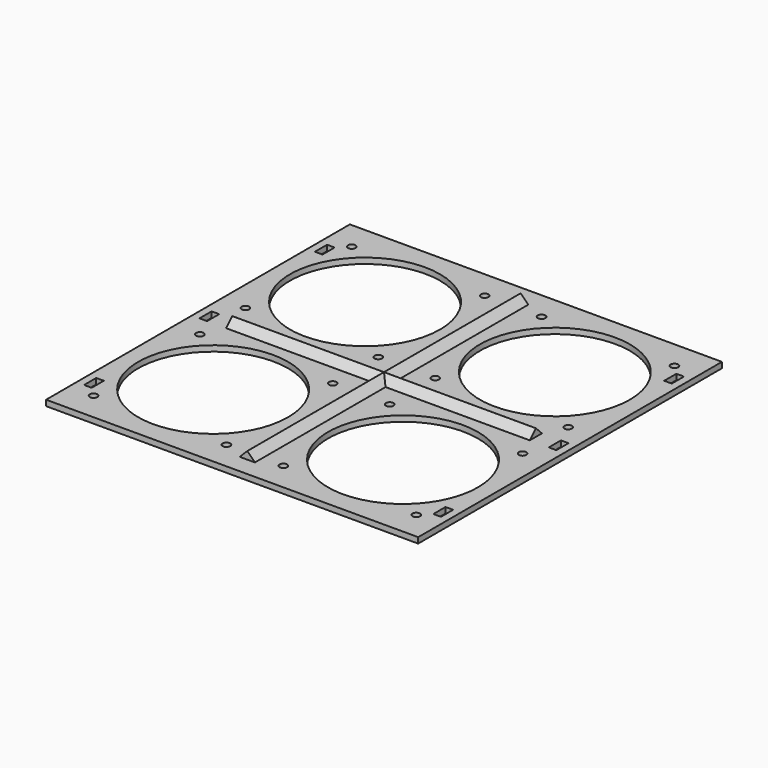
from build123d import *

# Parameters (mm, degrees)
SKETCH_W        = 196
SKETCH_H        = 200
PAD_DEPTH       = 3
SKETCH001_R     = 39.5
SKETCH001_R_2   = 2
POCKET_DEPTH    = 5
SKETCH002_W     = 4
SKETCH002_H     = 8
POCKET001_DEPTH = 5
SKETCH003_W     = 8
SKETCH003_H     = 180
PAD001_DEPTH    = 4
SKETCH004_W     = 160
SKETCH004_H     = 8
PAD002_DEPTH    = 4
CHAMFER_SIZE    = 3.99
CHAMFER001_SIZE = 3.99


with BuildPart() as part:
    # Sketch → Pad (new body)
    with BuildSketch(Plane.XY):
        Rectangle(SKETCH_W, SKETCH_H)
    extrude(amount=PAD_DEPTH)

    # Sketch001 (on Face6 of Pad) → Pocket (cut)
    with BuildSketch(Plane.XY.offset(3)):
        with Locations((-50, 50)):
            Circle(SKETCH001_R)
        with Locations((50, 50)):
            Circle(SKETCH001_R)
        with Locations((50, -50)):
            Circle(SKETCH001_R)
        with Locations((-50, -50)):
            Circle(SKETCH001_R)
        with Locations((-85, 85)):
            Circle(SKETCH001_R_2)
        with Locations((-15, 85)):
            Circle(SKETCH001_R_2)
        with Locations((-85, 15)):
            Circle(SKETCH001_R_2)
        with Locations((-15, 15)):
            Circle(SKETCH001_R_2)
        with Locations((15, 15)):
            Circle(SKETCH001_R_2)
        with Locations((15, 85)):
            Circle(SKETCH001_R_2)
        with Locations((85, 85)):
            Circle(SKETCH001_R_2)
        with Locations((85, 15)):
            Circle(SKETCH001_R_2)
        with Locations((85, -15)):
            Circle(SKETCH001_R_2)
        with Locations((15, -15)):
            Circle(SKETCH001_R_2)
        with Locations((15, -85)):
            Circle(SKETCH001_R_2)
        with Locations((85, -85)):
            Circle(SKETCH001_R_2)
        with Locations((-15, -85)):
            Circle(SKETCH001_R_2)
        with Locations((-85, -15)):
            Circle(SKETCH001_R_2)
        with Locations((-15, -15)):
            Circle(SKETCH001_R_2)
        with Locations((-85, -85)):
            Circle(SKETCH001_R_2)
    extrude(amount=-POCKET_DEPTH, mode=Mode.SUBTRACT)

    # Sketch002 (on Face5 of Pocket) → Pocket001 (cut)
    with BuildSketch(Plane.XY.offset(3)):
        with Locations((92, 76)):
            Rectangle(SKETCH002_W, SKETCH002_H)
        with Locations((92, -76)):
            Rectangle(SKETCH002_W, SKETCH002_H)
        with Locations((92, 0)):
            Rectangle(SKETCH002_W, SKETCH002_H)
        with Locations((-92, 0)):
            Rectangle(SKETCH002_W, SKETCH002_H)
        with Locations((-92, 76)):
            Rectangle(SKETCH002_W, SKETCH002_H)
        with Locations((-92, -76)):
            Rectangle(SKETCH002_W, SKETCH002_H)
    extrude(amount=-POCKET001_DEPTH, mode=Mode.SUBTRACT)

    # Sketch003 (on Face5 of Pocket001) → Pad001 (join)
    with BuildSketch(Plane.XY.offset(3)):
        Rectangle(SKETCH003_W, SKETCH003_H)
    extrude(amount=PAD001_DEPTH)

    # Sketch004 (on Face5 of Pad001) → Pad002 (join)
    with BuildSketch(Plane.XY.offset(3)):
        Rectangle(SKETCH004_W, SKETCH004_H)
    extrude(amount=PAD002_DEPTH)

    # Chamfer
    chamfer_edges = [part.edges().sort_by_distance(p)[0] for p in [
        (-42, -4, 7),
        (-42, 4, 7),
        (42, 4, 7),
        (42, -4, 7),
    ]]
    chamfer(chamfer_edges, length=CHAMFER_SIZE)

    # Chamfer001
    chamfer001_edges = [part.edges().sort_by_distance(p)[0] for p in [
        (-4, 47, 7),
        (4, 47, 7),
        (4, -47, 7),
        (-4, -47, 7),
    ]]
    chamfer(chamfer001_edges, length=CHAMFER001_SIZE)


solid = part.part
